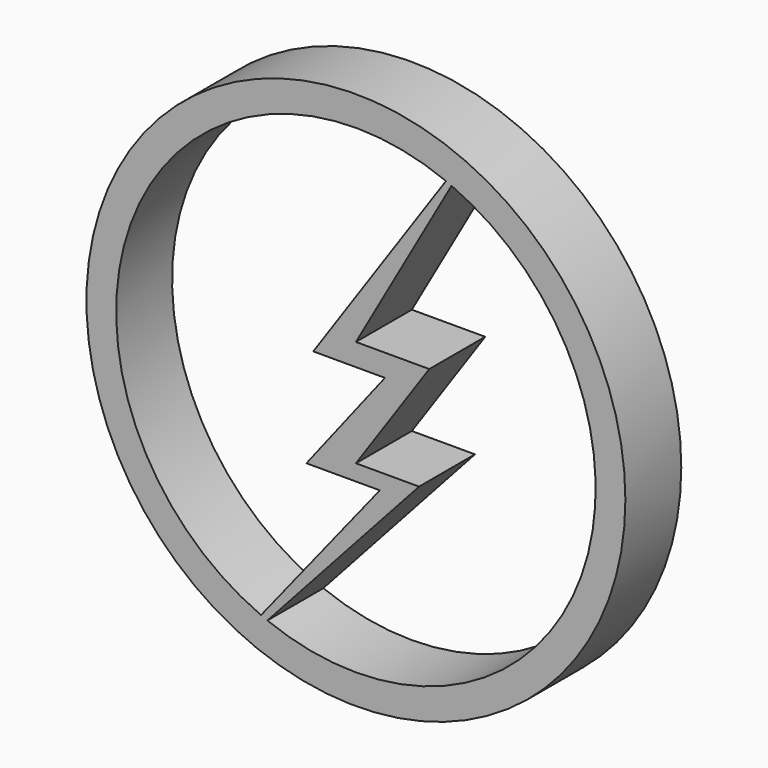
from build123d import *

# Parameters (mm, degrees)
F0_R     = 48.9649925961
F1_DEPTH = 12.7
F2_R     = 43.5622333877
F3_DEPTH = 12.7
F5_DEPTH = 12.7


with BuildPart() as f1:
    # F0 (on Front) → F1 (new body)
    with BuildSketch(Plane.XZ):
        Circle(F0_R)
    extrude(amount=F1_DEPTH)

    # F2 (on face) → F3 (cut)
    with BuildSketch(Plane.XZ.offset(12.7)):
        Circle(F2_R)
    extrude(amount=-F3_DEPTH, mode=Mode.SUBTRACT)

    # F4 (on face) → F5 (join)
    with BuildSketch(Plane.XZ.offset(12.7)):
        with BuildLine():
            ThreePointArc((17.379015252, 39.9454378696), (16.8725994385, 40.1619666589), (16.363486545, 40.3720755698))
            Line((16.363486545, 40.3720755698), (-7.7529065311, 5.2719768137))
            Line((-7.7529065311, 5.2719768137), (5.271977745, 5.2719768137))
            Line((5.271977745, 5.2719768137), (-8.9933723211, -13.0248842761))
            Line((-8.9933723211, -13.0248842761), (4.3416288681, -13.0248842761))
            Line((4.3416288681, -13.0248842761), (-17.2422079718, -40.004680251))
            ThreePointArc((-17.2422079718, -40.004680251), (-16.6644241691, -40.2487906009), (-16.0831855031, -40.4845565839))
            Line((-16.0831855031, -40.4845565839), (11.4743020386, -10.1048769623))
            Line((11.4743020386, -10.1048769623), (0, -10.1048769623))
            Line((0, -10.1048769623), (13.334998861, 9.3034887686))
            Line((13.334998861, 9.3034887686), (0, 9.3034887686))
            Line((0, 9.3034887686), (17.379015252, 39.9454378696))
        make_face()
    extrude(amount=-F5_DEPTH)


solid = f1.part
